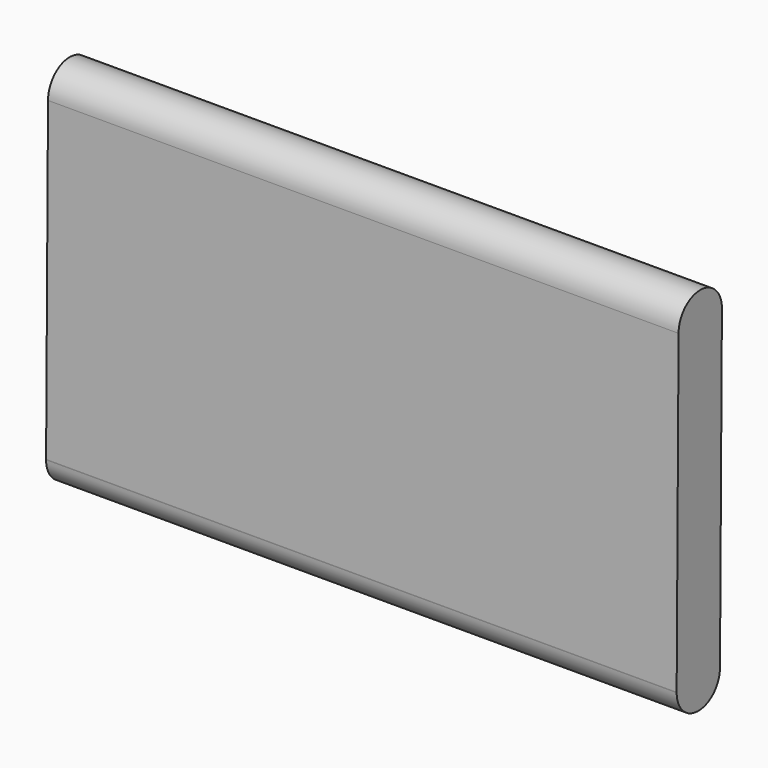
from build123d import *

# Parameters (mm, degrees)
F1_DEPTH = 609.6


with BuildPart() as f1:
    # F0 (on Right) → F1 (new body)
    with BuildSketch(Plane.YZ):
        with BuildLine():
            ThreePointArc((20.69705, 47.699512), (-5.548449, 21.713175), (-31.676846, 47.817252))
            Line((-31.676846, 47.817252), (-34.014098, -256.689529))
            ThreePointArc((-34.014098, -256.689529), (-7.628787, -230.904881), (18.357617, -257.09151))
            Line((18.357617, -257.09151), (20.69705, 47.699512))
        make_face()
        with BuildLine():
            ThreePointArc((18.357617, -257.09151), (-7.628787, -230.904881), (-34.014098, -256.689529))
            Line((-34.014098, -256.689529), (-34.017183, -257.09151))
            ThreePointArc((-34.017183, -257.09151), (-7.829783, -283.27891), (18.357617, -257.09151))
        make_face()
        with BuildLine():
            ThreePointArc((20.69705, 47.699512), (20.697629, 47.80001), (20.697822, 47.900508))
            ThreePointArc((20.697822, 47.900508), (-5.531207, 74.087875), (-31.676846, 47.817252))
            ThreePointArc((-31.676846, 47.817252), (-5.548449, 21.713175), (20.69705, 47.699512))
        make_face()
    extrude(amount=F1_DEPTH)


solid = f1.part
